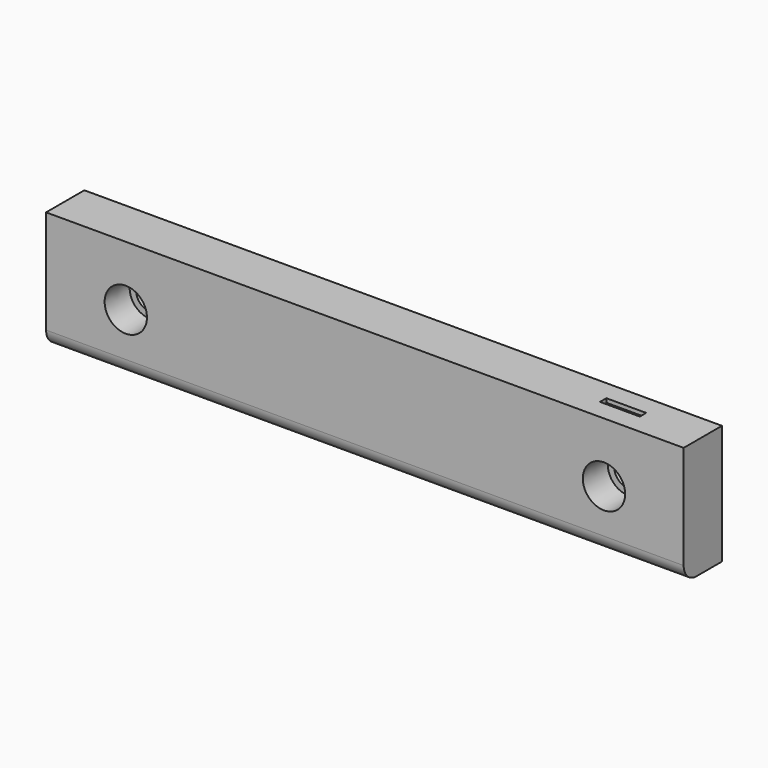
from build123d import *

# Parameters (mm, degrees)
F0_W      = 80
F0_H      = 6
F1_DEPTH  = 15
F4_R      = 2.55
F2_R      = 2.655
F7_D      = 3.5
F8_R      = 2
F9_W      = 5
F9_H      = 1
F10_DEPTH = 0.5


with BuildPart() as f1:
    # F0 (on Top) → F1 (new body)
    with BuildSketch(Plane.XY):
        Rectangle(F0_W, F0_H)
    extrude(amount=F1_DEPTH)

    # F4 (on offset) → F5 section 0
    with BuildSketch(Plane.XZ.offset(-0.8)):
        with Locations((-30, 7.5)):
            Circle(F4_R)
    # F2 (on face) → F5 section 1
    with BuildSketch(Plane.XZ.offset(3)):
        with Locations((-30, 7.5)):
            Circle(F2_R)
    loft(mode=Mode.SUBTRACT)

    # F2 (on face) → F6 section 0
    with BuildSketch(Plane.XZ.offset(3)):
        with Locations((30, 7.5)):
            Circle(F2_R)
    # F4 (on offset) → F6 section 1
    with BuildSketch(Plane.XZ.offset(-0.8)):
        with Locations((30, 7.5)):
            Circle(F4_R)
    loft(mode=Mode.SUBTRACT)

    # F7 (through all)
    with Locations(Plane.XZ.offset(-0.8)):
        with Locations((30, 7.5), (-30, 7.5)):
            Hole(F7_D / 2)

    # F8
    f8_edges = [f1.edges().sort_by_distance(p)[0] for p in [
        (0, -3, 0),
    ]]
    fillet(f8_edges, radius=F8_R)

    # F9 (on face) → F10 (cut)
    with BuildSketch(Plane.XY.offset(15)):
        with Locations((30, 0)):
            Rectangle(F9_W, F9_H)
    extrude(amount=-F10_DEPTH, mode=Mode.SUBTRACT)


solid = f1.part
